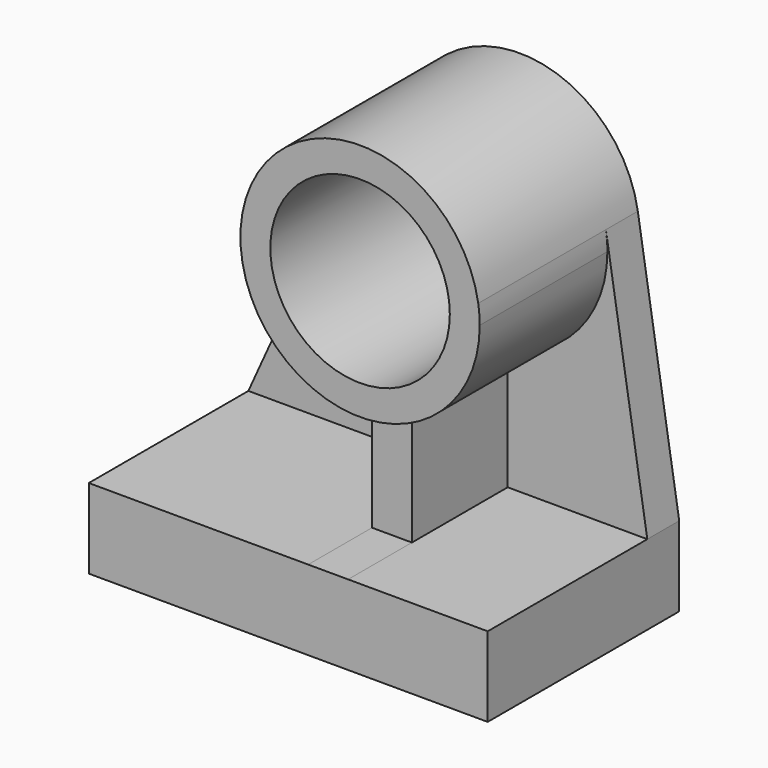
from build123d import *

# Parameters (mm, degrees)
F1_DEPTH = 152.4
F2_DEPTH = 25.4
F3_DEPTH = 101.6
F0_R     = 57.15
F4_DEPTH = 127


with BuildPart() as f1:
    # F0 (on Front) → F1 (new body)
    with BuildSketch(Plane.XZ):
        Polygon((101.599478, -203.715121), (101.599478, -152.915121), (12.7, -152.73483), (-12.7, -152.683317), (-152.4, -152.4), (-152.4, -203.2), align=None)
    extrude(amount=F1_DEPTH)

    # F0 (on Front) → F2 (join)
    with BuildSketch(Plane.XZ):
        with BuildLine():
            ThreePointArc((75.245546, 12.022802), (75.961012, 6.030314), (76.2, 0))
            ThreePointArc((76.2, 0), (58.198711, -49.186888), (12.7, -75.134213))
            Line((12.7, -75.134213), (12.7, -152.73483))
            Line((12.7, -152.73483), (101.599478, -152.915121))
            Line((101.599478, -152.915121), (75.245546, 12.022802))
        make_face()
        with BuildLine():
            ThreePointArc((-12.7, -75.134213), (-67.246003, -35.838737), (-69.451562, 31.351562))
            Line((-69.451562, 31.351562), (-152.4, -152.4))
            Line((-152.4, -152.4), (-12.7, -152.683317))
            Line((-12.7, -152.683317), (-12.7, -152.4))
            Line((-12.7, -152.4), (-12.7, -75.134213))
        make_face()
    extrude(amount=F2_DEPTH)

    # F0 (on Front) → F3 (join)
    with BuildSketch(Plane.XZ):
        with BuildLine():
            Line((12.7, -152.73483), (12.7, -75.134213))
            ThreePointArc((12.7, -75.134213), (0, -76.2), (-12.7, -75.134213))
            Line((-12.7, -75.134213), (-12.7, -152.4))
            Line((-12.7, -152.4), (-12.7, -152.683317))
            Line((-12.7, -152.683317), (12.7, -152.73483))
        make_face()
    extrude(amount=F3_DEPTH)

    # F0 (on Front) → F4 (join)
    with BuildSketch(Plane.XZ):
        with BuildLine():
            ThreePointArc((12.7, -75.134213), (58.198711, -49.186888), (76.2, 0))
            ThreePointArc((76.2, 0), (75.961012, 6.030314), (75.245546, 12.022802))
            ThreePointArc((75.245546, 12.022802), (10.089242, 75.529115), (-69.451562, 31.351562))
            ThreePointArc((-69.451562, 31.351562), (-67.246003, -35.838737), (-12.7, -75.134213))
            ThreePointArc((-12.7, -75.134213), (0, -76.2), (12.7, -75.134213))
        make_face()
        Circle(F0_R, mode=Mode.SUBTRACT)
    extrude(amount=F4_DEPTH)


solid = f1.part
